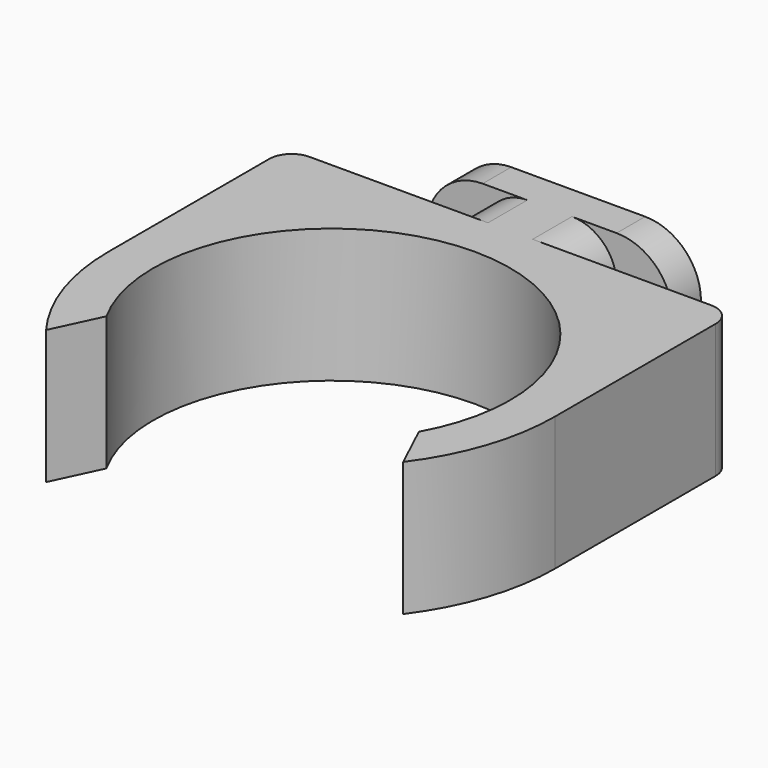
from build123d import *

# Parameters (mm, degrees)
PAD003_DEPTH = 6
FILLET_R     = 2
FILLET001_R  = 2.5
FILLET002_R  = 1


with BuildPart() as part:
    # Sketch023 → Pad003 (new body)
    with BuildSketch(Plane.XY):
        with BuildLine():
            ThreePointArc((7, -3.872983), (0, 8), (-7, -3.872983))
            Line((-7, -3.872983), (-8, -6))
            ThreePointArc((-10, 0), (-9.486833, -3.162278), (-8, -6))
            Line((-10, 0), (-10, 10))
            Line((-10, 10), (-3, 10))
            Line((-3, 10), (-3, 12.2))
            Line((-3, 12.2), (-5.5, 12.2))
            Line((-5.5, 12.2), (-5.5, 13.8))
            Line((-5.5, 13.8), (5.5, 13.8))
            Line((5.5, 13.8), (5.5, 12.2))
            Line((5.5, 12.2), (3, 12.2))
            Line((3, 12.2), (3, 10))
            Line((3, 10), (10, 10))
            Line((10, 0), (10, 10))
            ThreePointArc((8, -6), (9.486833, -3.162278), (10, 0))
            Line((7, -3.872983), (8, -6))
        make_face()
    extrude(amount=PAD003_DEPTH)

    # Fillet
    fillet_edges = [part.edges().sort_by_distance(p)[0] for p in [
        (-3, 11.1, 0),
        (-3, 11.1, 6),
        (3, 11.1, 6),
        (3, 11.1, 0),
    ]]
    fillet(fillet_edges, radius=FILLET_R)

    # Fillet001
    fillet001_edges = [part.edges().sort_by_distance(p)[0] for p in [
        (5.5, 13, 6),
        (5.5, 13, 0),
        (-5.5, 13, 6),
        (-5.5, 13, 0),
    ]]
    fillet(fillet001_edges, radius=FILLET001_R)

    # Fillet002
    fillet002_edges = [part.edges().sort_by_distance(p)[0] for p in [
        (10, 10, 3),
        (-10, 10, 3),
    ]]
    fillet(fillet002_edges, radius=FILLET002_R)


solid = part.part
